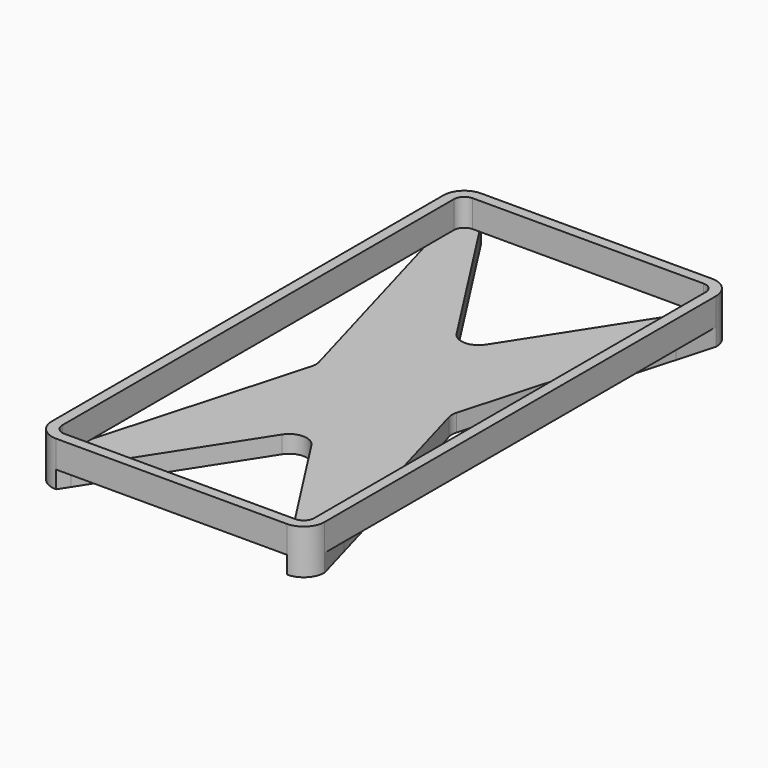
from build123d import *

# Parameters (mm, degrees)
F1_DEPTH = 7.8
F3_DEPTH = 5


with BuildPart() as f1:
    # F0 (on Top) → F1 (new body)
    with BuildSketch(Plane.XY):
        with BuildLine():
            Line((39.1, -70.15), (39.1, 70.15))
            ThreePointArc((39.1, 70.15), (37.342641, 74.392641), (33.1, 76.15))
            Line((33.1, 76.15), (-33.1, 76.15))
            ThreePointArc((-33.1, 76.15), (-37.342641, 74.392641), (-39.1, 70.15))
            Line((-39.1, 70.15), (-39.1, -70.15))
            ThreePointArc((-39.1, -70.15), (-37.342641, -74.392641), (-33.1, -76.15))
            Line((-33.1, -76.15), (33.1, -76.15))
            ThreePointArc((33.1, -76.15), (37.342641, -74.392641), (39.1, -70.15))
        make_face()
        with BuildLine():
            Line((-33.1, 73.15), (33.1, 73.15))
            ThreePointArc((33.1, 73.15), (35.22132, 72.27132), (36.1, 70.15))
            Line((36.1, 70.15), (36.1, -70.15))
            ThreePointArc((36.1, -70.15), (35.22132, -72.27132), (33.1, -73.15))
            Line((33.1, -73.15), (-33.1, -73.15))
            ThreePointArc((-33.1, -73.15), (-35.22132, -72.27132), (-36.1, -70.15))
            Line((-36.1, -70.15), (-36.1, 70.15))
            ThreePointArc((-36.1, 70.15), (-35.22132, 72.27132), (-33.1, 73.15))
        make_face(mode=Mode.SUBTRACT)
    extrude(amount=F1_DEPTH)

    # F2 (on face) → F3 (join)
    with BuildSketch(Plane(origin=(0, 0, 0), x_dir=(1, 0, 0), z_dir=(0, 0, -1))):
        with BuildLine():
            Line((-4.203966, 31.27091), (-31.168408, 73.15))
            Line((-31.168408, 73.15), (-33.1, 73.15))
            ThreePointArc((-33.1, 73.15), (-35.22132, 72.27132), (-36.1, 70.15))
            Line((-36.1, 70.15), (-36.1, 59.508006))
            Line((-36.1, 59.508006), (-19.707009, 1.356636))
            ThreePointArc((-19.707009, 1.356636), (-19.519445, 0), (-19.707009, -1.356636))
            Line((-19.707009, -1.356636), (-36.1, -59.508006))
            Line((-36.1, -59.508006), (-36.1, -70.15))
            ThreePointArc((-36.1, -70.15), (-35.22132, -72.27132), (-33.1, -73.15))
            Line((-33.1, -73.15), (-31.168408, -73.15))
            Line((-31.168408, -73.15), (-4.203966, -31.27091))
            ThreePointArc((-4.203966, -31.27091), (0, -28.977692), (4.203966, -31.27091))
            Line((4.203966, -31.27091), (31.168408, -73.15))
            Line((31.168408, -73.15), (33.1, -73.15))
            ThreePointArc((33.1, -73.15), (35.22132, -72.27132), (36.1, -70.15))
            Line((36.1, -70.15), (36.1, -59.508006))
            Line((36.1, -59.508006), (19.707009, -1.356636))
            ThreePointArc((19.707009, -1.356636), (19.519445, 0), (19.707009, 1.356636))
            Line((19.707009, 1.356636), (36.1, 59.508006))
            Line((36.1, 59.508006), (36.1, 70.15))
            ThreePointArc((36.1, 70.15), (35.22132, 72.27132), (33.1, 73.15))
            Line((33.1, 73.15), (31.168408, 73.15))
            Line((31.168408, 73.15), (4.203966, 31.27091))
            ThreePointArc((4.203966, 31.27091), (0, 28.977692), (-4.203966, 31.27091))
        make_face()
        with BuildLine():
            Line((-31.168408, 73.15), (-33.1, 76.15))
            ThreePointArc((-33.1, 76.15), (-37.342641, 74.392641), (-39.1, 70.15))
            Line((-39.1, 70.15), (-36.1, 59.508006))
            Line((-36.1, 59.508006), (-36.1, 70.15))
            ThreePointArc((-36.1, 70.15), (-35.22132, 72.27132), (-33.1, 73.15))
            Line((-33.1, 73.15), (-31.168408, 73.15))
        make_face()
        with BuildLine():
            ThreePointArc((39.1, 70.15), (37.342641, 74.392641), (33.1, 76.15))
            Line((33.1, 76.15), (31.168408, 73.15))
            Line((31.168408, 73.15), (33.1, 73.15))
            ThreePointArc((33.1, 73.15), (35.22132, 72.27132), (36.1, 70.15))
            Line((36.1, 70.15), (36.1, 59.508006))
            Line((36.1, 59.508006), (39.1, 70.15))
        make_face()
        with BuildLine():
            ThreePointArc((33.1, -76.15), (37.342641, -74.392641), (39.1, -70.15))
            Line((39.1, -70.15), (36.1, -59.508006))
            Line((36.1, -59.508006), (36.1, -70.15))
            ThreePointArc((36.1, -70.15), (35.22132, -72.27132), (33.1, -73.15))
            Line((33.1, -73.15), (31.168408, -73.15))
            Line((31.168408, -73.15), (33.1, -76.15))
        make_face()
        with BuildLine():
            Line((-36.1, -59.508006), (-39.1, -70.15))
            ThreePointArc((-39.1, -70.15), (-37.342641, -74.392641), (-33.1, -76.15))
            Line((-33.1, -76.15), (-31.168408, -73.15))
            Line((-31.168408, -73.15), (-33.1, -73.15))
            ThreePointArc((-33.1, -73.15), (-35.22132, -72.27132), (-36.1, -70.15))
            Line((-36.1, -70.15), (-36.1, -59.508006))
        make_face()
    extrude(amount=F3_DEPTH)


solid = f1.part
